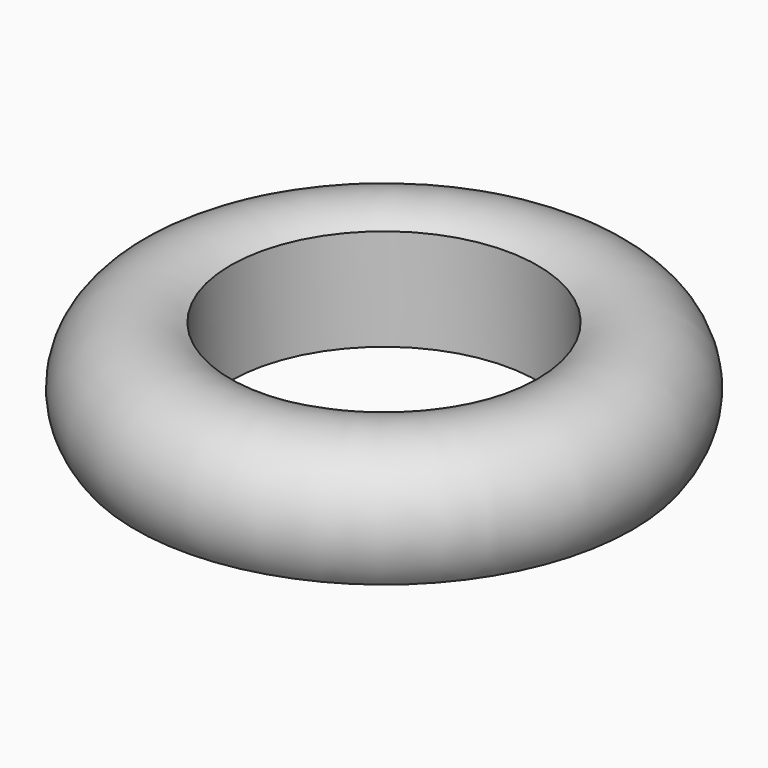
from build123d import *


with BuildPart() as f1:
    # F0 (on Front) → F1 (revolve)
    with BuildSketch(Plane.XZ):
        with BuildLine():
            ThreePointArc((31.770818, 0), (30.541925, 30.691406), (0, 33.956885))
            Line((0, 33.956885), (0, 0))
            Line((0, 0), (31.770818, 0))
        make_face()
    revolve(axis=Axis((-51.299673, 0, 0.874426), (0, 0, -1)))


solid = f1.part
